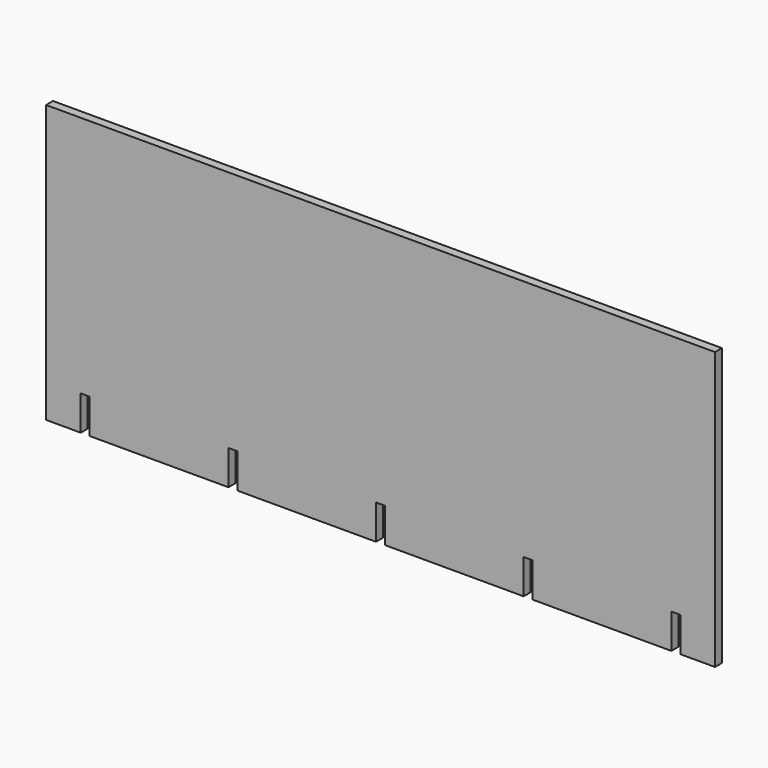
from build123d import *

# Parameters (mm, degrees)
F1_DEPTH = 3.175


with BuildPart() as f1:
    # F0 (on Front) → F1 (new body)
    with BuildSketch(Plane.XZ):
        Polygon((0, 12.7), (0, 0), (50.8, 0), (50.8, 12.7), (54.102, 12.7), (54.102, 0), (104.902, 0), (104.902, 12.7), (108.204, 12.7), (108.204, 0), (159.004, 0), (159.004, 12.7), (162.306, 12.7), (162.306, 0), (213.106, 0), (213.106, 12.701321), (216.408, 12.701321), (216.408, 0), (229.108, 0), (229.108, 101.6), (-16.002, 101.6), (-16.002, 0), (-3.302, 0), (-3.302, 12.7), align=None)
    extrude(amount=F1_DEPTH)


solid = f1.part
